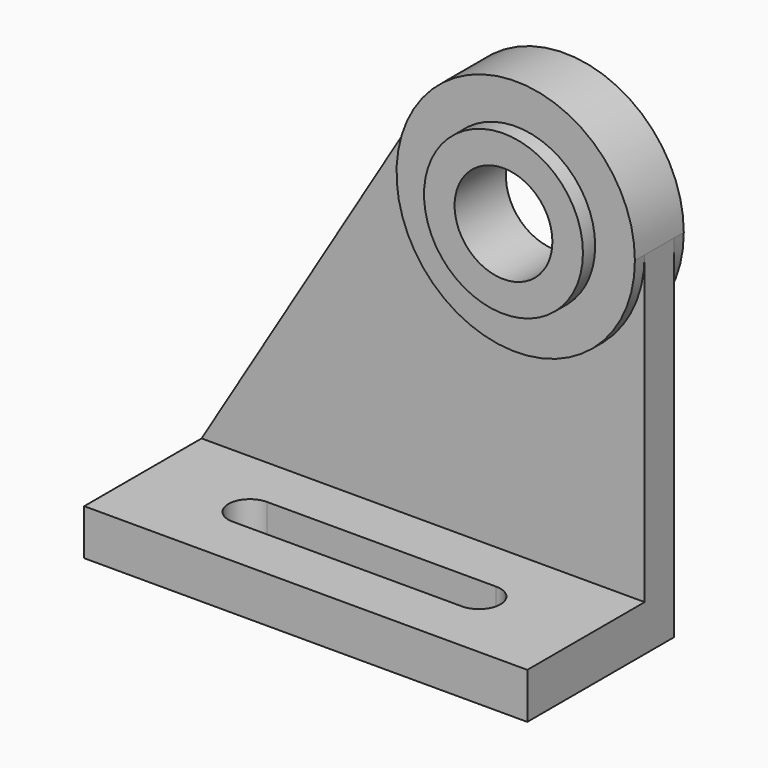
from build123d import *

# Parameters (mm, degrees)
F0_W          = 145
F0_H          = 48
F1_DEPTH      = 15
F0_H_2        = 12
F2_DEPTH      = 15
F4_DEPTH      = 12
F3_R          = 26
F5_DEPTH      = 16
F5_DEPTH_BACK = 4
F3_R_2        = 16
F6_DEPTH      = 21


with BuildPart() as f1:
    # F0 (on Top) → F1 (new body)
    with BuildSketch(Plane.XY):
        with Locations((0, -36)):
            Rectangle(F0_W, F0_H)
        with BuildLine():
            ThreePointArc((-37.5, -43), (-44.5, -36), (-37.5, -29))
            Line((-37.5, -29), (37.5, -29))
            ThreePointArc((37.5, -29), (44.5, -36), (37.5, -43))
            Line((37.5, -43), (-37.5, -43))
        make_face(mode=Mode.SUBTRACT)
    extrude(amount=F1_DEPTH)

    # F0 (on Top) → F2 (join)
    with BuildSketch(Plane.XY):
        with Locations((0, -6)):
            Rectangle(F0_W, F0_H_2)
    extrude(amount=F2_DEPTH)

    # F3 (on Front) → F4 (join)
    with BuildSketch(Plane.XZ):
        with BuildLine():
            Line((-72.5, 15), (-72.5, 0))
            Line((-72.5, 0), (72.5, 0))
            Line((72.5, 0), (72.5, 115))
            ThreePointArc((72.5, 115), (23.030062, 77.431657), (0.121518, 135.171191))
            Line((0.121518, 135.171191), (-72.5, 15))
        make_face()
    extrude(amount=F4_DEPTH)

    # F3 (on Front) → F5 (join, two sides)
    with BuildSketch(Plane.XZ) as f5_sk:
        with BuildLine():
            ThreePointArc((0.121518, 135.171191), (23.030062, 77.431657), (72.5, 115))
            ThreePointArc((72.5, 115), (43.969938, 152.568343), (0.121518, 135.171191))
        make_face()
        with Locations((33.5, 115)):
            Circle(F3_R, mode=Mode.SUBTRACT)
    extrude(amount=F5_DEPTH)
    extrude(f5_sk.sketch, amount=-F5_DEPTH_BACK)

    # F3 (on Front) → F6 (join)
    with BuildSketch(Plane.XZ):
        with Locations((33.5, 115)):
            Circle(F3_R)
        with Locations((33.5, 115)):
            Circle(F3_R_2, mode=Mode.SUBTRACT)
    extrude(amount=F6_DEPTH)


solid = f1.part
